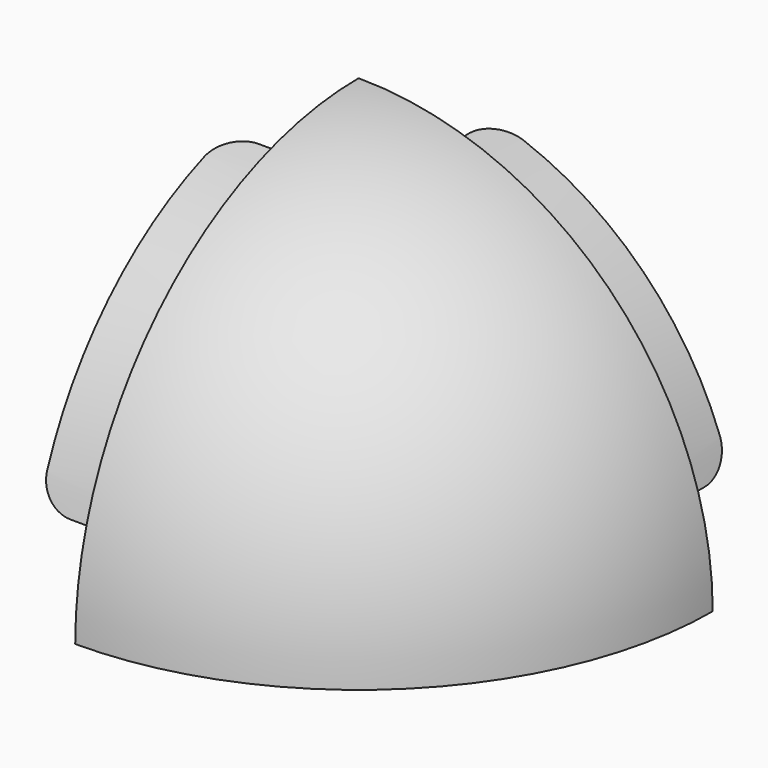
from build123d import *

# Parameters (mm, degrees)
F1_ANGLE  = 90
F3_DEPTH  = 20
F5_DEPTH  = 20
F7_DEPTH  = 20
F8_R      = 10
F11_DEPTH = 10


with BuildPart() as f1:
    # F0 (on Right) → F1 (revolve)
    with BuildSketch(Plane.YZ):
        with BuildLine():
            Line((0, 94.3), (0, 114.3))
            ThreePointArc((0, 114.3), (-80.8223050896, 80.8223050896), (-114.3, 0))
            Line((-114.3, 0), (-94.3, 0))
            ThreePointArc((-94.3, 0), (-66.6801694659, 66.6801694659), (0, 94.3))
        make_face()
    revolve(axis=Axis((0, 0, 104.3), (0, 0, 1)), revolution_arc=F1_ANGLE)

    # F2 (on face) → F3 (join)
    with BuildSketch(Plane(origin=(0, 0, 0), x_dir=(-1, 0, 0), z_dir=(0, 1, 0))):
        with BuildLine():
            Line((-26.2183692689, 97.8482862031), (-27.7712835395, 103.6438411608))
            ThreePointArc((-27.7712835395, 103.6438411608), (-75.8725576213, 75.8725576213), (-103.6438411608, 27.7712835395))
            Line((-103.6438411608, 27.7712835395), (-97.8482862031, 26.2183692689))
            ThreePointArc((-97.8482862031, 26.2183692689), (-71.6299169342, 71.6299169342), (-26.2183692689, 97.8482862031))
        make_face()
    extrude(amount=F3_DEPTH)

    # F4 (on face) → F5 (join)
    with BuildSketch(Plane.YZ):
        with BuildLine():
            ThreePointArc((-97.8482862031, 26.2183692689), (-71.6299169342, 71.6299169342), (-26.2183692689, 97.8482862031))
            Line((-26.2183692689, 97.8482862031), (-27.7712835395, 103.6438411608))
            ThreePointArc((-27.7712835395, 103.6438411608), (-75.8725576213, 75.8725576213), (-103.6438411608, 27.7712835395))
            Line((-103.6438411608, 27.7712835395), (-97.8482862031, 26.2183692689))
        make_face()
    extrude(amount=-F5_DEPTH)

    # F6 (on face) → F7 (cut)
    with BuildSketch(Plane(origin=(0, 0, 0), x_dir=(1, 0, 0), z_dir=(0, 0, -1))):
        with BuildLine():
            Line((27.7712835395, 103.6438411608), (26.2183692689, 97.8482862031))
            ThreePointArc((26.2183692689, 97.8482862031), (40.3932806821, 92.8981855352), (53.6808214668, 85.9072721406))
            Line((53.6808214668, 85.9072721406), (56.8603370522, 90.9955607176))
            ThreePointArc((56.8603370522, 90.9955607176), (42.7857750957, 98.4005459815), (27.7712835395, 103.6438411608))
        make_face()
        with BuildLine():
            ThreePointArc((84.9573285329, 55.171934247), (92.1790767398, 42.0084254811), (97.3758097986, 27.9220641443))
            Line((97.3758097986, 27.9220641443), (103.1433799742, 29.5758882792))
            ThreePointArc((103.1433799742, 29.5758882792), (97.6388443651, 44.496584937), (89.9893519405, 58.4397684571))
            Line((89.9893519405, 58.4397684571), (84.9573285329, 55.171934247))
        make_face()
    extrude(amount=-F7_DEPTH, mode=Mode.SUBTRACT)

    # F8
    f8_edges = [f1.edges().sort_by_distance(p)[0] for p in [
        (100.746064, 20, 26.994826),
        (26.994826, 20, 100.746064),
        (-20, -26.994826, 100.746064),
        (-20, -100.746064, 26.994826),
    ]]
    fillet(f8_edges, radius=F8_R)

    # F10 (on offset) → F11 (cut)
    with BuildSketch(Plane(origin=(0, 0, 10), x_dir=(1, 0, 0), z_dir=(0, 0, -1))):
        with BuildLine():
            ThreePointArc((97.3758097986, 27.9220641443), (99.4762319066, 19.1355503099), (100.7854867979, 10.1968451452))
            Line((100.7854867979, 10.1968451452), (106.7579299629, 10.7719260129))
            ThreePointArc((106.7579299629, 10.7719260129), (105.3709505868, 20.2546975401), (103.1433799742, 29.5758882792))
            Line((103.1433799742, 29.5758882792), (97.3758097986, 27.9220641443))
        make_face()
        Polygon((0.327321584, 0.5238240331), (0, 0), (0.4947707785, 0.5399475566), align=None)
        Polygon((0.4947707785, 0.5399475566), (0, 0), (2.5848787999, 0.7412020686), align=None)
        with BuildLine():
            Line((56.8603370522, 90.9955607176), (53.6808214668, 85.9072721406))
            ThreePointArc((53.6808214668, 85.9072721406), (61.3162809887, 80.6350028568), (68.4372880315, 74.6861942189))
            Line((68.4372880315, 74.6861942189), (72.4908292772, 79.1098582397))
            ThreePointArc((72.4908292772, 79.1098582397), (64.948044917, 85.411014872), (56.8603370522, 90.9955607176))
        make_face()
    extrude(amount=-F11_DEPTH, mode=Mode.SUBTRACT)


solid = f1.part
